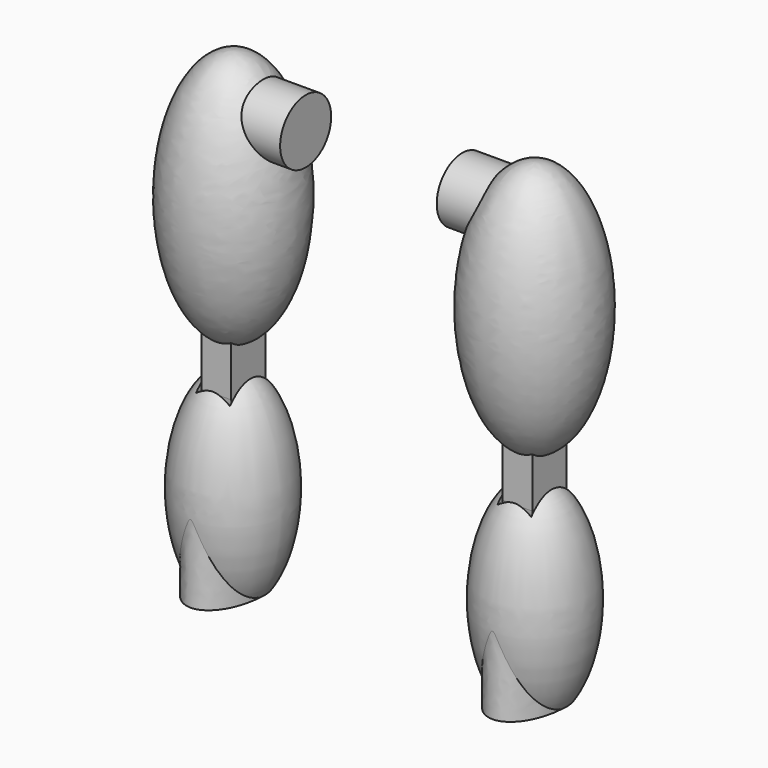
from build123d import *

# Parameters (mm, degrees)
F4_DEPTH  = 25.4
F7_DEPTH  = 5.08
F9_DEPTH  = 4.445
F12_R     = 9.525
F13_DEPTH = 21.59


with BuildPart() as f1:
    # F0 (on Front) → F1 (revolve)
    with BuildSketch(Plane.XZ):
        with BuildLine():
            Line((-45.0685583055, -25.4), (-35.5435583055, -25.4))
            add(Edge.make_bspline(
                [(-35.5435583055, -25.4), (2.5564416945, 31.75), (-45.0685583055, 31.75)],
                knots=[0.6435011088, 0.6435011088, 0.6435011088, 3.1415926536, 3.1415926536, 3.1415926536], degree=2, weights=[1, 0.316227766, 1]))
            Line((-45.0685583055, 31.75), (-45.0685583055, -25.4))
        make_face()
    revolve(axis=Axis((-45.0685583055, 0, 3.175), (0, 0, 1)))

    # F3 (on offset) → F4 (join)
    with BuildSketch(Plane.XY.offset(-25.4)):
        with BuildLine():
            Line((-35.5887127722, 0), (-54.5484038388, 0))
            add(Edge.make_bspline(
                [(-54.5484038388, 0), (-54.5484038388, -15.8348083496), (-45.0685583055, -15.8348083496), (-35.5887127722, -15.8348083496), (-35.5887127722, 0)],
                knots=[4.7123889804, 4.7123889804, 4.7123889804, 6.2831853072, 6.2831853072, 7.853981634, 7.853981634, 7.853981634], degree=2, weights=[1, 0.7071067812, 1, 0.7071067812, 1]))
        make_face()
    extrude(amount=F4_DEPTH)

    # F6 (on offset) → F7 (cut, symmetric)
    with BuildSketch(Plane.YZ.offset(-44.958)):
        with BuildLine():
            Line((0, 34.3538969755), (0, 34.29))
            ThreePointArc((0, 34.29), (-7.62, 26.67), (0, 19.05))
            Line((0, 19.05), (14.2379095778, 19.05))
            Line((14.2379095778, 19.05), (14.2379095778, 34.3538969755))
            Line((14.2379095778, 34.3538969755), (0, 34.3538969755))
        make_face()
    extrude(amount=F7_DEPTH, both=True, mode=Mode.SUBTRACT)


with BuildPart() as f9:
    # F8 (on offset) → F9 (new body, symmetric)
    with BuildSketch(Plane.YZ.offset(-44.958)):
        with BuildLine():
            Line((-6.35, 47.1523561049), (-6.35, 26.8323561049))
            ThreePointArc((-6.35, 26.8323561049), (0, 20.4823561049), (6.35, 26.8323561049))
            Line((6.35, 26.8323561049), (6.35, 47.1523561049))
            ThreePointArc((6.35, 47.1523561049), (0, 53.5023561049), (-6.35, 47.1523561049))
        make_face()
    extrude(amount=F9_DEPTH, both=True)

    # F10 (on offset) → F11 (revolve)
    with BuildSketch(Plane.YZ.offset(-44.958)):
        with BuildLine():
            Line((0, 38.3631479979), (0, 114.5631479979))
            add(Edge.make_bspline(
                [(0, 114.5631479979), (-18.7325, 114.5631479979), (-18.7325, 76.4631479979), (-18.7325, 38.3631479979), (0, 38.3631479979)],
                knots=[3.1415926536, 3.1415926536, 3.1415926536, 4.7123889804, 4.7123889804, 6.2831853072, 6.2831853072, 6.2831853072], degree=2, weights=[1, 0.7071067812, 1, 0.7071067812, 1]))
        make_face()
    revolve(axis=Axis((-44.958, 0, 76.4631479979), (0, 0, 1)))

    # F12 (on offset) → F13 (join)
    with BuildSketch(Plane.YZ.offset(-44.958)):
        with Locations((0, 100.4155948758)):
            Circle(F12_R)
    extrude(amount=F13_DEPTH)


with BuildPart() as f14_1:
    # F14: instance of F1
    add(f1.part.mirror(Plane.YZ))


with BuildPart() as f14_2:
    # F14: instance of F9
    add(f9.part.mirror(Plane.YZ))


solid = Compound([f1.part, f9.part, f14_1.part, f14_2.part])
